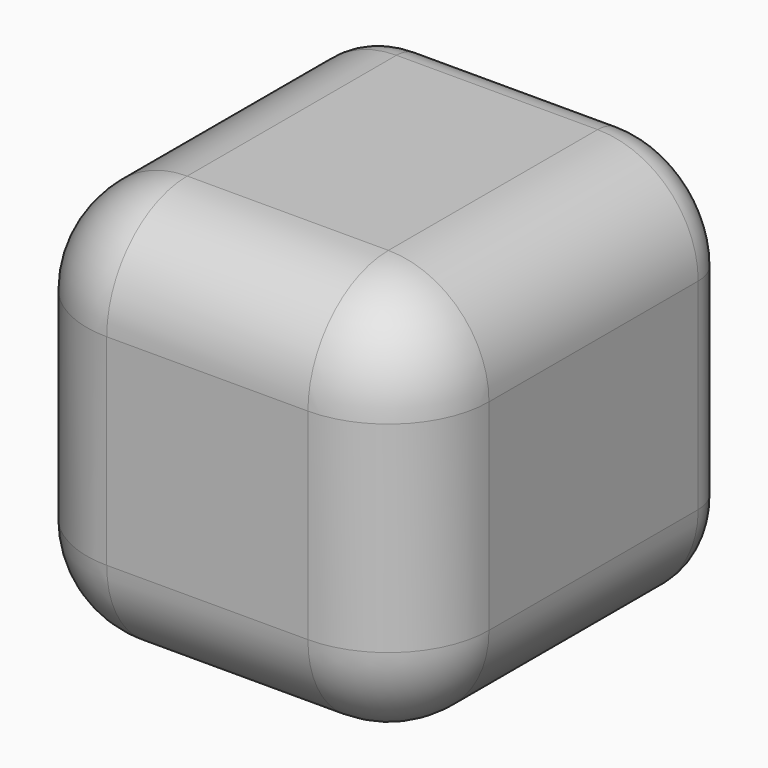
from build123d import *

# Parameters (mm, degrees)
F0_W     = 20
F0_H     = 20
F1_DEPTH = 20
F2_W     = 13.2
F2_H     = 13.2
F3_DEPTH = 16
F4_R     = 5
F5_R     = 2


with BuildPart() as f1:
    # F0 (on Front) → F1 (new body)
    with BuildSketch(Plane.XZ):
        with Locations((10, 10)):
            Rectangle(F0_W, F0_H)
    extrude(amount=F1_DEPTH)

    # F2 (on face) → F3 (cut)
    with BuildSketch(Plane(origin=(0, 0, 0), x_dir=(-1, 0, 0), z_dir=(0, 1, 0))):
        with Locations((-10, 10)):
            Rectangle(F2_W, F2_H)
    extrude(amount=-F3_DEPTH, mode=Mode.SUBTRACT)

    # F4
    f4_edges = [f1.edges().sort_by_distance(p)[0] for p in [
        (0, -20, 10),
        (10, -20, 0),
        (20, -20, 10),
        (10, -20, 20),
        (20, -10, 20),
        (0, -10, 20),
        (20, -10, 0),
        (0, -10, 0),
    ]]
    fillet(f4_edges, radius=F4_R)

    # F5
    f5_edges = [f1.edges().sort_by_distance(p)[0] for p in [
        (18.535534, 0, 1.464466),
        (20, 0, 10),
        (18.535534, 0, 18.535534),
        (10, 0, 20),
        (1.464466, 0, 18.535534),
        (0, 0, 10),
        (1.464466, 0, 1.464466),
        (10, 0, 0),
    ]]
    fillet(f5_edges, radius=F5_R)


solid = f1.part
